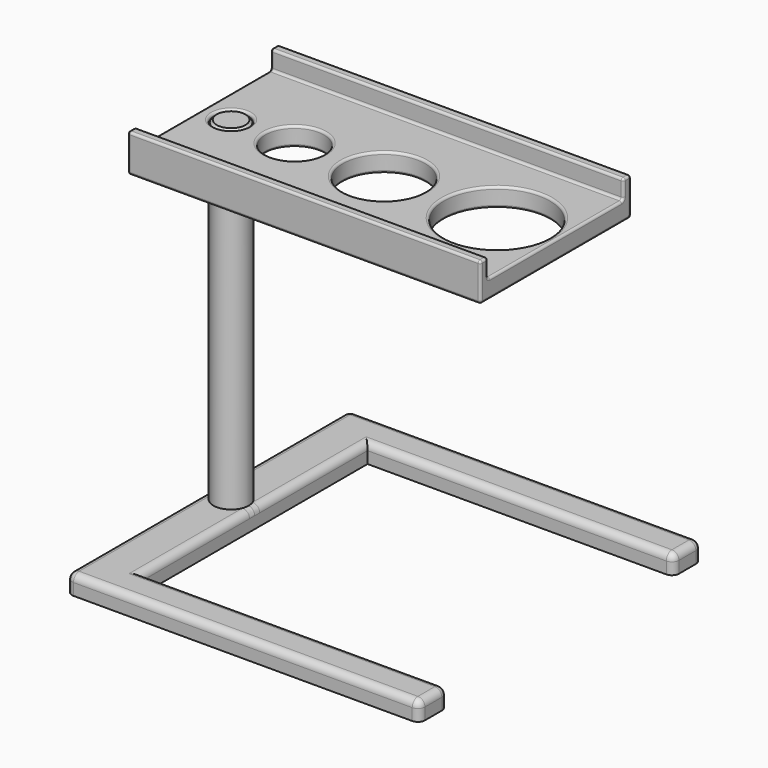
from build123d import *

# Parameters (mm, degrees)
F2_R      = 7.5
F3_DEPTH  = 8
F4_DEPTH  = 142
F5_R      = 7.1
F6_DEPTH  = 8
F7_SIZE   = 1
F8_R      = 3
F9_W      = 150
F9_H      = 72
F9_R      = 7.5
F9_R_2    = 12.5
F9_R_3    = 17.5
F9_R_4    = 22.5
F9_H_2    = 4
F10_DEPTH = 8
F11_DEPTH = 16
F12_R     = 1


with BuildPart() as f3:
    # F2 (on Top) → F3 (new body)
    with BuildSketch(Plane.XY):
        Polygon((-75, -75), (75, -75), (75, -60), (-55, -60), (-55, 60), (75, 60), (75, 75), (-75, 75), align=None)
        with Locations((-65, 0)):
            Circle(F2_R, mode=Mode.SUBTRACT)
        with Locations((-65, 0)):
            Circle(F2_R)
    extrude(amount=F3_DEPTH)

    # F2 (on Top) → F4 (join)
    with BuildSketch(Plane.XY):
        with Locations((-65, 0)):
            Circle(F2_R)
    extrude(amount=F4_DEPTH)

    # F5 (on face) → F6 (join)
    with BuildSketch(Plane.XY.offset(142)):
        with Locations((-65, 0)):
            Circle(F5_R)
    extrude(amount=F6_DEPTH)

    # F7
    f7_edges = [f3.edges().sort_by_distance(p)[0] for p in [
        (-72.1, 0, 150),
    ]]
    chamfer(f7_edges, length=F7_SIZE)

    # F8
    f8_edges = [f3.edges().sort_by_distance(p)[0] for p in [
        (10, 60, 8),
        (0, 75, 8),
        (-75, 0, 8),
        (75, 67.5, 8),
        (75, -67.5, 8),
        (10, -60, 8),
        (0, -75, 8),
        (-55, 0, 8),
        (75, 60, 4),
        (75, 75, 4),
        (75, -60, 4),
        (75, -75, 4),
        (-75, -75, 4),
        (-75, 75, 4),
    ]]
    fillet(f8_edges, radius=F8_R)


with BuildPart() as f10:
    # F9 (on face) → F10 (new body, through all)
    with BuildSketch(Plane.XY.offset(142)):
        with Locations((-2, 0)):
            Rectangle(F9_W, F9_H)
        with Locations((-65, 0)):
            Circle(F9_R, mode=Mode.SUBTRACT)
        with Locations((-38, 0)):
            Circle(F9_R_2, mode=Mode.SUBTRACT)
        Circle(F9_R_3, mode=Mode.SUBTRACT)
        with Locations((48, 0)):
            Circle(F9_R_4, mode=Mode.SUBTRACT)
        with Locations((-2, 38)):
            Rectangle(F9_W, F9_H_2)
        with Locations((-2, -38)):
            Rectangle(F9_W, F9_H_2)
    extrude(amount=F10_DEPTH)

    # F9 (on face) → F11 (join)
    with BuildSketch(Plane.XY.offset(142)):
        with Locations((-2, 38)):
            Rectangle(F9_W, F9_H_2)
        with Locations((-2, -38)):
            Rectangle(F9_W, F9_H_2)
    extrude(amount=F11_DEPTH)

    # F12
    f12_edges = [f10.edges().sort_by_distance(p)[0] for p in [
        (73, 0, 150),
        (-2, -36, 150),
        (-77, 0, 150),
        (-2, 36, 150),
        (-72.5, 0, 150),
        (-50.5, 0, 150),
        (-17.5, 0, 150),
        (25.5, 0, 150),
        (-2, 40, 142),
        (-77, 0, 142),
        (-2, -40, 142),
        (73, 0, 142),
        (25.5, 0, 142),
        (-72.5, 0, 142),
        (-50.5, 0, 142),
        (-17.5, 0, 142),
        (73, -40, 150),
        (73, -38, 158),
        (73, -36, 154),
        (73, 36, 154),
        (73, 38, 158),
        (73, 40, 150),
        (-77, -40, 150),
        (-2, -40, 158),
        (-77, 40, 150),
        (-77, 38, 158),
        (-77, 36, 154),
        (-77, -36, 154),
        (-77, -38, 158),
        (-2, 40, 158),
        (-2, -36, 158),
        (-2, 36, 158),
    ]]
    fillet(f12_edges, radius=F12_R)


solid = Compound([f3.part, f10.part])
